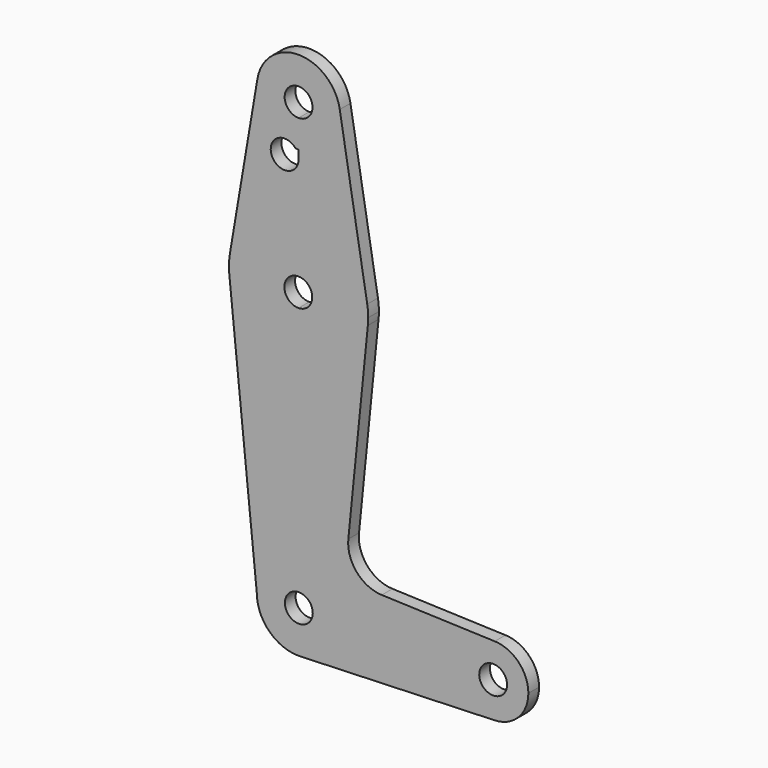
from build123d import *

# Parameters (mm, degrees)
F1_DEPTH = 3.048


with BuildPart() as f1:
    # F0 (on Front) → F1 (new body)
    with BuildSketch(Plane.XZ):
        with BuildLine():
            Line((-15.7942028036, 61.9003804205), (-9.525, 0))
            ThreePointArc((-9.525, 0), (-6.7351920908, 6.7351920908), (0, 9.525))
            Line((0, 9.525), (0, 47.625))
            ThreePointArc((0, 47.625), (-10.644756084, 51.722700101), (-15.7942028036, 61.9003804205))
        make_face()
        with BuildLine():
            Line((0, 47.625), (0, 9.525))
            ThreePointArc((0, 9.525), (6.7351920908, 6.7351920908), (9.525, 0))
            Line((9.525, 0), (36.5125, 0))
            ThreePointArc((36.5125, 0), (38.9384772185, 5.7120069047), (44.7334821429, 7.9324362036))
            Line((44.7334821429, 7.9324362036), (18.9676000005, 8.8532337108))
            ThreePointArc((18.9676000005, 8.8532337108), (13.2611998974, 11.5713591498), (11.3411865923, 17.5933818124))
            Line((11.3411865923, 17.5933818124), (15.7954255641, 61.9125))
            ThreePointArc((15.7954255641, 61.9125), (10.6492737428, 51.7267849017), (0, 47.625))
        make_face()
        with BuildLine():
            Line((0, 60.2693398367), (0, 47.625))
            ThreePointArc((0, 47.625), (10.6492737428, 51.7267849017), (15.7954255641, 61.9125))
            ThreePointArc((15.7954255641, 61.9125), (15.8550939106, 62.7052534459), (15.875, 63.5))
            ThreePointArc((15.875, 63.5), (15.8193928826, 64.8275668819), (15.6529610928, 66.1458333333))
            ThreePointArc((15.6529610928, 66.1458333333), (10.2472684368, 75.6247315262), (0, 79.375))
            Line((0, 79.375), (0, 66.6181157459))
            ThreePointArc((0, 66.6181157459), (2.2046582518, 65.6666425018), (3.1126612977, 63.4437277913))
            ThreePointArc((3.1126612977, 63.4437277913), (2.2046582518, 61.2208130808), (0, 60.2693398367))
        make_face()
        with BuildLine():
            Line((0, 90.0970622897), (0, 79.375))
            ThreePointArc((0, 79.375), (10.2472684368, 75.6247315262), (15.6529610928, 66.1458333333))
            Line((15.6529610928, 66.1458333333), (9.3917766557, 103.1875))
            ThreePointArc((9.3917766557, 103.1875), (9.4916357296, 102.3965401292), (9.525, 101.6))
            ThreePointArc((9.525, 101.6), (6.7351920908, 94.8648079092), (0, 92.075))
            Line((0, 92.075), (0, 90.0970622897))
        make_face()
        with BuildLine():
            Line((-9.3917766557, 103.1875), (-15.6529610928, 66.1458333333))
            ThreePointArc((-15.6529610928, 66.1458333333), (-10.2472684368, 75.6247315262), (0, 79.375))
            Line((0, 79.375), (0, 90.0970622897))
            ThreePointArc((0, 90.0970622897), (-4.9964063311, 87.4964654396), (-4.2602229776, 93.0808377653))
            ThreePointArc((-4.2602229776, 93.0808377653), (-8.4929634921, 97.2877852417), (-9.3917766557, 103.1875))
        make_face()
        with BuildLine():
            ThreePointArc((9.525, 0), (6.7351920908, 6.7351920908), (0, 9.525))
            Line((0, 9.525), (0, 3.2708285446))
            ThreePointArc((0, 3.2708285446), (2.2829063485, 2.3620896132), (3.2336886856, 0.0963710101))
            ThreePointArc((3.2336886856, 0.0963710101), (3.2333229358, 0.0481799536), (3.2322257704, 0))
            Line((3.2322257704, 0), (9.525, 0))
        make_face()
        with BuildLine():
            ThreePointArc((0, 9.525), (-6.7351920908, 6.7351920908), (-9.525, 0))
            ThreePointArc((-9.525, 0), (-6.7351920908, -6.7351920908), (0, -9.525))
            Line((0, -9.525), (0.6773435479, -9.500885786))
            ThreePointArc((0.6773435479, -9.500885786), (6.9705567315, -6.4912990883), (9.525, 0))
            Line((9.525, 0), (3.2322257704, 0))
            ThreePointArc((3.2322257704, 0), (-2.1996624782, -2.1353267788), (0, 3.2708285446))
            Line((0, 3.2708285446), (0, 9.525))
        make_face()
        with BuildLine():
            ThreePointArc((9.3917766557, 103.1875), (0, 111.125), (-9.3917766557, 103.1875))
            ThreePointArc((-9.3917766557, 103.1875), (-8.4929634921, 97.2877852417), (-4.2602229776, 93.0808377653))
            ThreePointArc((-4.2602229776, 93.0808377653), (-2.3302363695, 93.1576176982), (-0.7128887489, 92.1017151742))
            ThreePointArc((-0.7128887489, 92.1017151742), (-0.3566945713, 92.0816811367), (0, 92.075))
            ThreePointArc((0, 92.075), (6.7351920908, 94.8648079092), (9.525, 101.6))
            ThreePointArc((9.525, 101.6), (9.4916357296, 102.3965401292), (9.3917766557, 103.1875))
        make_face()
        with BuildLine():
            ThreePointArc((3.175, 101.6), (2.2450640303, 99.3549359697), (0, 98.425))
            ThreePointArc((0, 98.425), (-2.2450640303, 103.8450640303), (3.175, 101.6))
        make_face(mode=Mode.SUBTRACT)
        with BuildLine():
            ThreePointArc((9.525, 0), (6.9705567315, -6.4912990883), (0.6773435479, -9.500885786))
            Line((0.6773435479, -9.500885786), (44.7324052746, -7.9324746146))
            ThreePointArc((44.7324052746, -7.9324746146), (38.9380895153, -5.7116327839), (36.5125, 0))
            Line((36.5125, 0), (9.525, 0))
        make_face()
        with BuildLine():
            ThreePointArc((36.5125, 0), (38.9380895153, -5.7116327839), (44.7324052746, -7.9324746146))
            ThreePointArc((44.7324052746, -7.9324746146), (50.1616327839, -5.5119104847), (52.3875, 0))
            ThreePointArc((52.3875, 0), (50.1620069047, 5.5115227815), (44.7334821429, 7.9324362036))
            ThreePointArc((44.7334821429, 7.9324362036), (38.9384772185, 5.7120069047), (36.5125, 0))
        make_face()
        with BuildLine():
            ThreePointArc((47.5371203303, 0.1135847051), (44.4189217735, -3.0609071591), (41.1891527108, 0))
            ThreePointArc((41.1891527108, 0), (44.3053188871, 3.2880765693), (47.5371203303, 0.1135847051))
        make_face(mode=Mode.SUBTRACT)
        with BuildLine():
            ThreePointArc((-15.6529610928, 66.1458333333), (-15.8662218846, 64.0278523562), (-15.7942028036, 61.9003804205))
            ThreePointArc((-15.7942028036, 61.9003804205), (-10.644756084, 51.722700101), (0, 47.625))
            Line((0, 47.625), (0, 60.2693398367))
            ThreePointArc((0, 60.2693398367), (-3.2373387023, 63.4437277913), (0, 66.6181157459))
            Line((0, 66.6181157459), (0, 79.375))
            ThreePointArc((0, 79.375), (-10.2472684368, 75.6247315262), (-15.6529610928, 66.1458333333))
        make_face()
    extrude(amount=F1_DEPTH)


solid = f1.part
